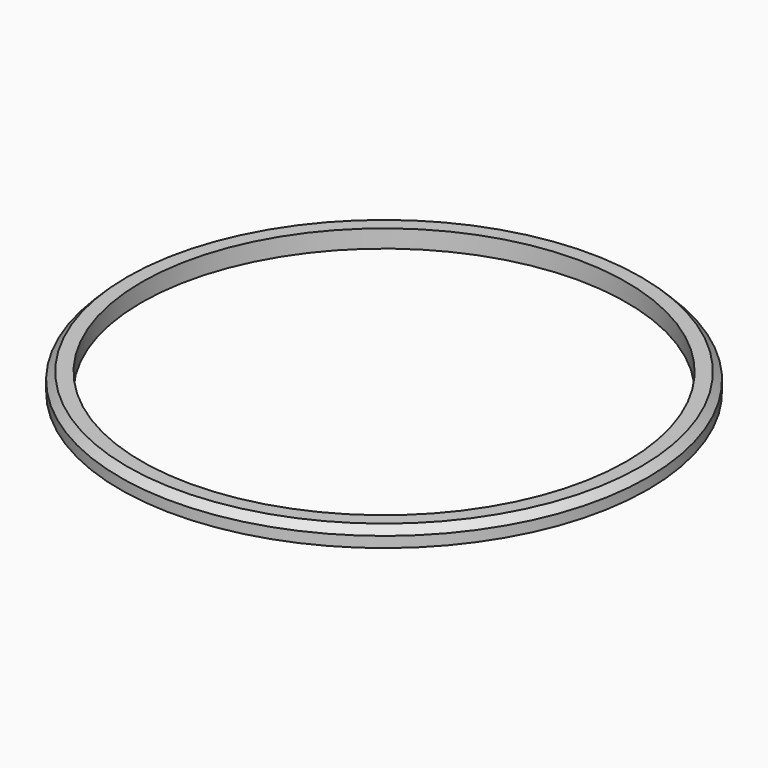
from build123d import *

# Parameters (mm, degrees)
SKETCH_R     = 37
SKETCH_R_2   = 34
PAD_DEPTH    = 2.5
CHAMFER_SIZE = 1


with BuildPart() as part:
    # Sketch → Pad (new body)
    with BuildSketch(Plane.XY):
        Circle(SKETCH_R)
        Circle(SKETCH_R_2, mode=Mode.SUBTRACT)
    extrude(amount=PAD_DEPTH)

    # Chamfer
    chamfer_edges = [part.edges().sort_by_distance(p)[0] for p in [
        (-37, 0, 2.5),
    ]]
    chamfer(chamfer_edges, length=CHAMFER_SIZE)


solid = part.part
